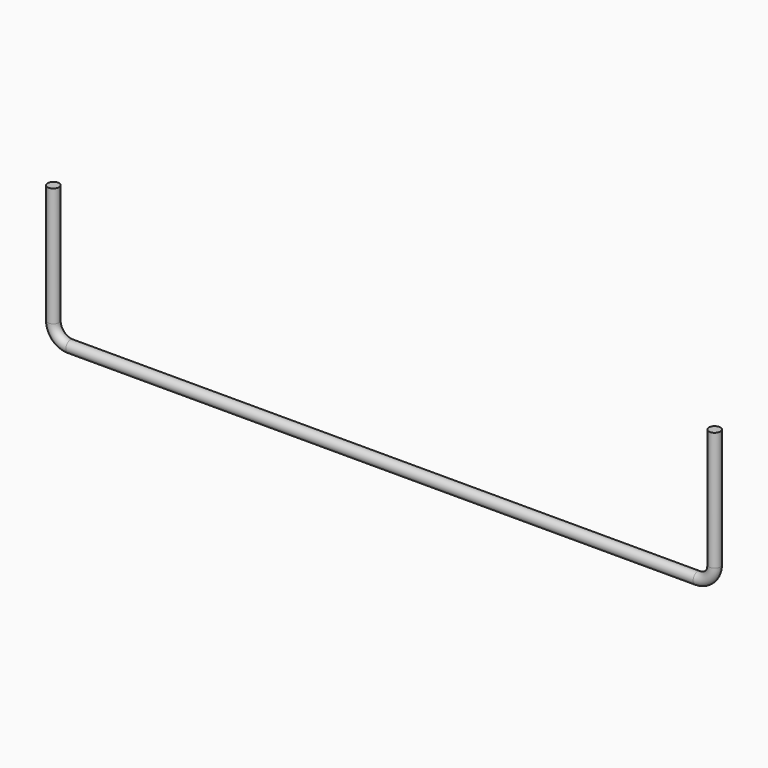
from build123d import *

# Parameters (mm, degrees)
F1_R = 25.4


with BuildPart() as f2:
    # F2: sweep along a path in F0
    with BuildLine(Plane.XZ) as f2_path:
        Line((0, 0), (0, -533.4))
        ThreePointArc((0, -533.4), (-22.3184632736, -587.2815367264), (-76.2, -609.6))
        Line((-76.2, -609.6), (-2882.9, -609.6))
        ThreePointArc((-2882.9, -609.6), (-2936.7815367264, -587.2815367264), (-2959.1, -533.4))
        Line((-2959.1, -533.4), (-2959.1, 0))
    # F1 (on Top) → F2 (sweep)
    with BuildSketch(Plane.XY):
        Circle(F1_R)
    sweep(path=f2_path.line)


solid = f2.part
